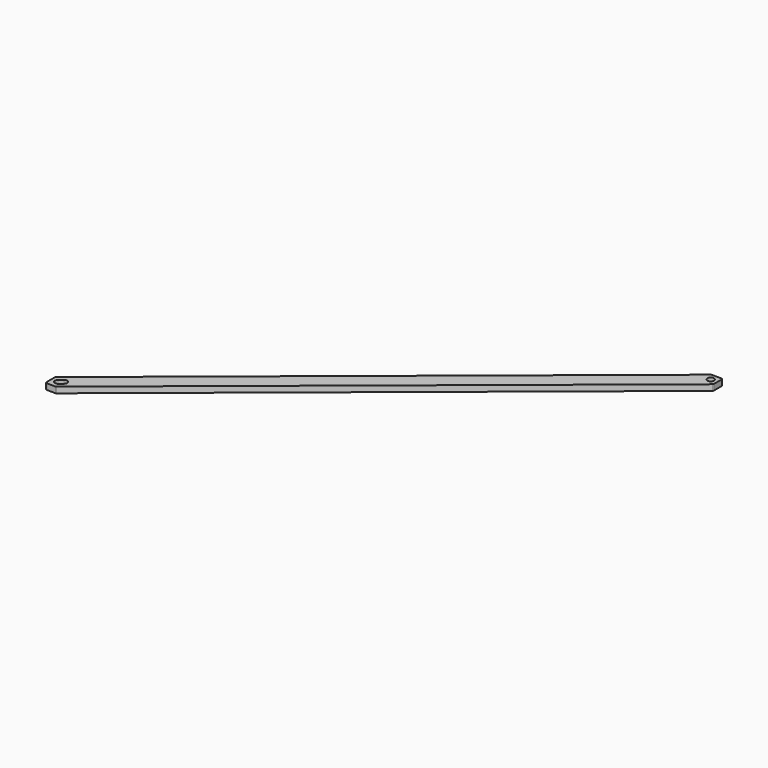
from build123d import *

# Parameters (mm, degrees)
SKETCH_R  = 4.5
PAD_DEPTH = 8


with BuildPart() as part:
    # Sketch → Pad (new body)
    with BuildSketch(Plane.XY):
        with BuildLine():
            Line((-34.918649, 618.551784), (-573.934055, 180.286922))
            ThreePointArc((-573.934055, 180.286922), (-574.47835, 179.594363), (-574.672324, 178.735138))
            Line((-574.672324, 178.735138), (-574.672324, 164.892597))
            ThreePointArc((-574.672324, 164.892597), (-574.086537, 163.478383), (-572.672324, 162.892597))
            Line((-561.164831, 162.892597), (-572.672324, 162.892597))
            ThreePointArc((-561.164831, 162.892597), (-560.495341, 163.007979), (-559.903099, 163.340812))
            Line((-559.903099, 163.340812), (-19.738269, 602.540254))
            ThreePointArc((-19.738269, 602.540254), (-19.193974, 603.232813), (-19, 604.092038))
            Line((-19, 604.092038), (-19, 617))
            ThreePointArc((-19, 617), (-19.585786, 618.414214), (-21, 619))
            Line((-33.656918, 619), (-21, 619))
            ThreePointArc((-33.656918, 619), (-34.326407, 618.884618), (-34.918649, 618.551784))
        make_face()
        with Locations((-28, 610)):
            Circle(SKETCH_R, mode=Mode.SUBTRACT)
        with BuildLine():
            Line((-563.511219, 180.384111), (-568.166572, 176.598918))
            ThreePointArc((-568.166572, 176.598918), (-568.819191, 170.268508), (-562.488781, 169.615889))
            Line((-557.833428, 173.401082), (-562.488781, 169.615889))
            ThreePointArc((-557.833428, 173.401082), (-557.180809, 179.731492), (-563.511219, 180.384111))
        make_face(mode=Mode.SUBTRACT)
    extrude(amount=PAD_DEPTH)


solid = part.part
